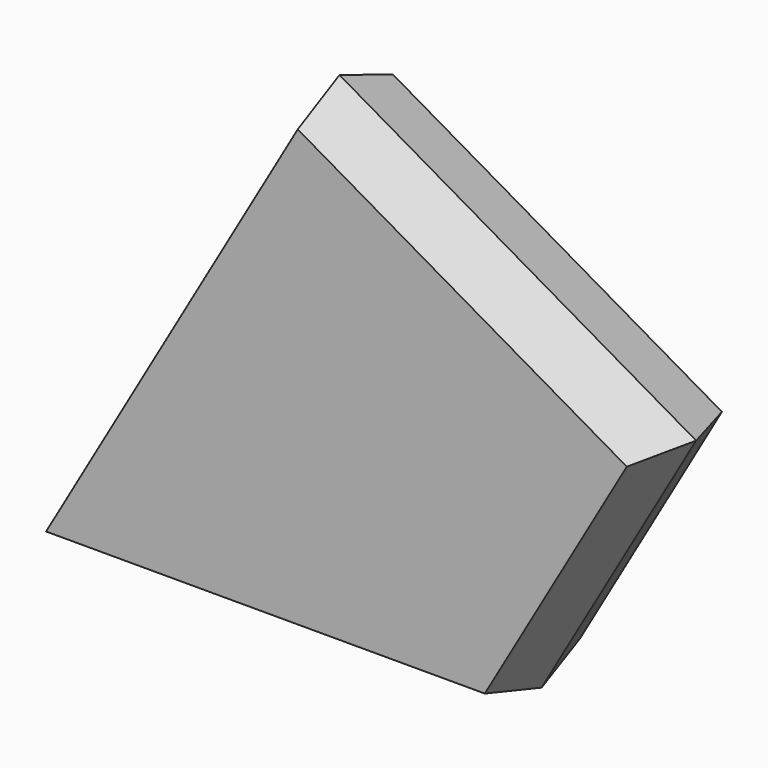
from build123d import *

# Parameters (mm, degrees)
F1_DEPTH = 12.5
F1_TAPER = 15


with BuildPart() as f1:
    # F0 (on Front) → F1 (new body, symmetric)
    with BuildSketch(Plane.XZ):
        Polygon((57.5, 99.5929214352), (0, 0), (100, 0), (132.5, 56.291651246), align=None)
    extrude(amount=F1_DEPTH, both=True, taper=F1_TAPER)


solid = f1.part
